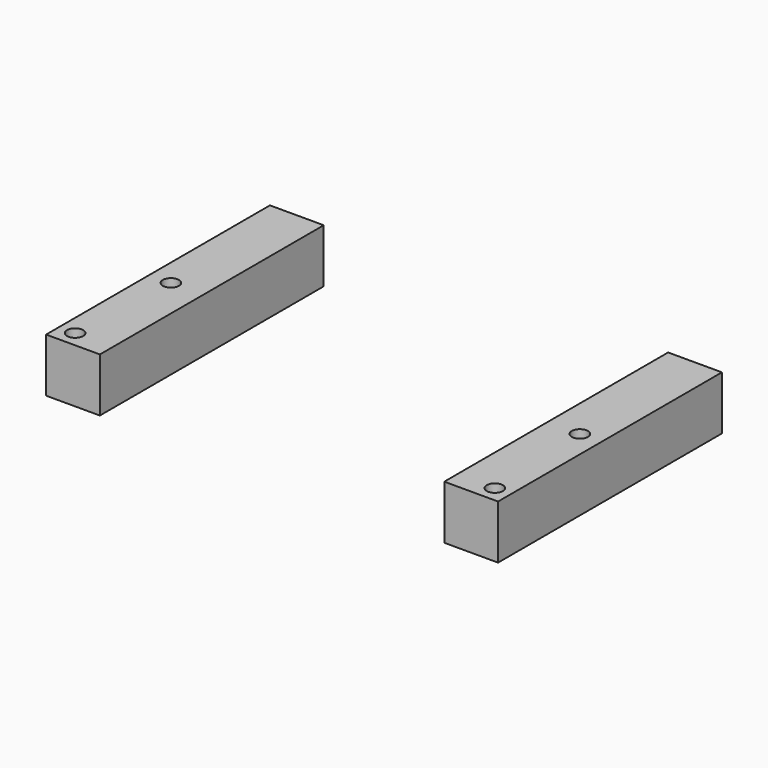
from build123d import *

# Parameters (mm, degrees)
BOX239_W           = 6
BOX239_H           = 6
BOX239_DEPTH       = 64
BOX238_W           = 6
BOX238_H           = 6
BOX238_DEPTH       = 64
CYLINDER1263_R     = 1.5
CYLINDER1263_DEPTH = 32
CYLINDER1262_R     = 1.5
CYLINDER1262_DEPTH = 32
CYLINDER1261_R     = 1.5
CYLINDER1261_DEPTH = 100
CYLINDER1260_R     = 1.5
CYLINDER1260_DEPTH = 100
CYLINDER586_R      = 1.5
CYLINDER586_DEPTH  = 100
CYLINDER585_R      = 1.5
CYLINDER585_DEPTH  = 100
BOX141_W           = 10
BOX141_H           = 52
BOX141_DEPTH       = 10
BOX140_W           = 10
BOX140_H           = 52
BOX140_DEPTH       = 10


with BuildPart() as krychle239:
    # Box239 → Box239 (new body)
    with BuildSketch(Plane(origin=(87, -3, -93), x_dir=(1, 0, 0), z_dir=(0, 0, 1))):
        with Locations((3, 3)):
            Rectangle(BOX239_W, BOX239_H)
    extrude(amount=BOX239_DEPTH)


with BuildPart() as compound646:
    # Box238 → Box238 (new body)
    with BuildSketch(Plane(origin=(11, -3, -93), x_dir=(1, 0, 0), z_dir=(0, 0, 1))):
        with Locations((3, 3)):
            Rectangle(BOX238_W, BOX238_H)
    extrude(amount=BOX238_DEPTH)

    # Compound646: union Krychle239
    add(krychle239.part)


with BuildPart() as compound646_1:
    # Compound646 placement: moved
    add(compound646.part.moved(Location((-52, 0, 36))))


with BuildPart() as obj1:
    # Cylinder1263 → Cylinder1263 (new body)
    with BuildSketch(Plane(origin=(78, 41, -42), x_dir=(1, 0, 0), z_dir=(0, 0, 1))):
        Circle(CYLINDER1263_R)
    extrude(amount=CYLINDER1263_DEPTH)


with BuildPart() as compound645:
    # Cylinder1262 → Cylinder1262 (new body)
    with BuildSketch(Plane(origin=(26, 41, -42), x_dir=(1, 0, 0), z_dir=(0, 0, 1))):
        Circle(CYLINDER1262_R)
    extrude(amount=CYLINDER1262_DEPTH)

    # Compound645: union obj1
    add(obj1.part)


with BuildPart() as compound645_1:
    # Compound645 placement: moved
    add(compound645.part.moved(Location((-52, 0, 36))))


with BuildPart() as obj2:
    # Cylinder1261 → Cylinder1261 (new body)
    with BuildSketch(Plane(origin=(14, 0, -60), x_dir=(1, 0, 0), z_dir=(0, 0, 1))):
        Circle(CYLINDER1261_R)
    extrude(amount=CYLINDER1261_DEPTH)


with BuildPart() as compound643:
    # Cylinder1260 → Cylinder1260 (new body)
    with BuildSketch(Plane(origin=(90, 0, -60), x_dir=(1, 0, 0), z_dir=(0, 0, 1))):
        Circle(CYLINDER1260_R)
    extrude(amount=CYLINDER1260_DEPTH)

    # Compound644: union obj2
    add(obj2.part)


with BuildPart() as compound643_1:
    # Compound644 placement: moved
    add(compound643.part.moved(Location((-52, 0, 0))))

    # Compound643: union Compound645
    add(compound645_1.part)


with BuildPart() as obj3:
    # Cylinder586 → Cylinder586 (new body)
    with BuildSketch(Plane(origin=(39, -21, 0), x_dir=(1, 0, 0), z_dir=(0, 0, 1))):
        Circle(CYLINDER586_R)
    extrude(amount=CYLINDER586_DEPTH)


with BuildPart() as compound340:
    # Cylinder585 → Cylinder585 (new body)
    with BuildSketch(Plane(origin=(-39, -21, 0), x_dir=(1, 0, 0), z_dir=(0, 0, 1))):
        Circle(CYLINDER585_R)
    extrude(amount=CYLINDER585_DEPTH)

    # Compound340: union obj3
    add(obj3.part)


with BuildPart() as krychle141:
    # Box141 → Box141 (new body)
    with BuildSketch(Plane(origin=(-42, -24, 0), x_dir=(1, 0, 0), z_dir=(0, 0, 1))):
        with Locations((5, 26)):
            Rectangle(BOX141_W, BOX141_H)
    extrude(amount=BOX141_DEPTH)


with BuildPart() as cut200:
    # Box140 → Box140 (new body)
    with BuildSketch(Plane(origin=(32, -24, 0), x_dir=(1, 0, 0), z_dir=(0, 0, 1))):
        with Locations((5, 26)):
            Rectangle(BOX140_W, BOX140_H)
    extrude(amount=BOX140_DEPTH)

    # Compound341: union Krychle141
    add(krychle141.part)

    # Cut173: cut Compound340
    add(compound340.part, mode=Mode.SUBTRACT)

    # Cut199: cut Compound643
    add(compound643_1.part, mode=Mode.SUBTRACT)

    # Cut200: cut Compound646
    add(compound646_1.part, mode=Mode.SUBTRACT)


solid = cut200.part
